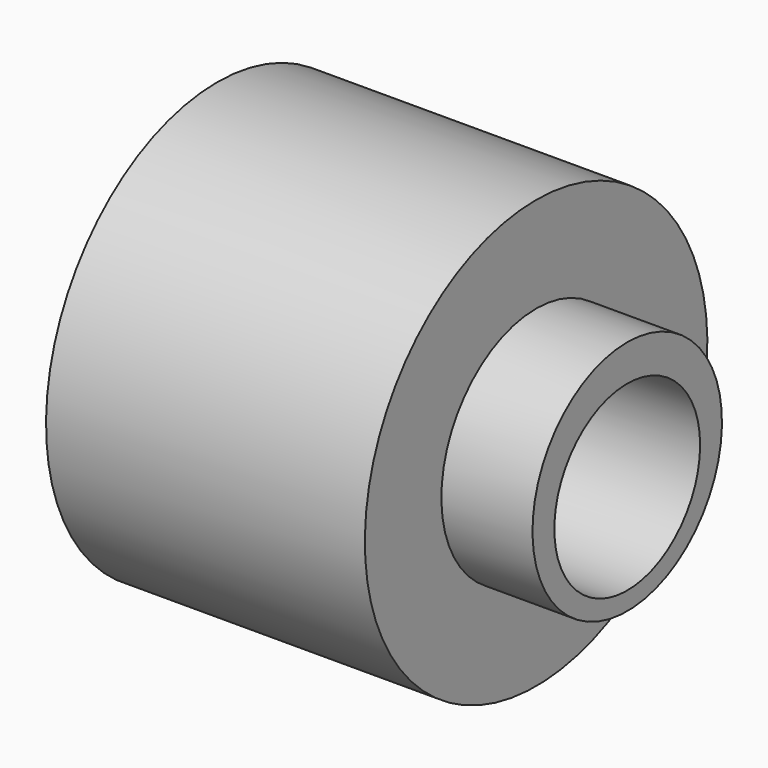
from build123d import *

# Parameters (mm, degrees)
F2_R      = 10
F3_DEPTH  = 25
F4_R      = 10
F5_DEPTH  = 20
F6_R      = 15.25
F7_DEPTH  = 5
F9_R      = 3
F10_DEPTH = 15


with BuildPart() as f1:
    # F0 (on Front) → F1 (revolve)
    with BuildSketch(Plane.XZ):
        Polygon((-35, 23.5), (-35, 0), (10, 0), (10, 13), (0, 13), (0, 23.5), align=None)
    revolve(axis=Axis((-3.193799, 0, 0), (1, 0, 0)))

    # F2 (on face) → F3 (cut)
    with BuildSketch(Plane.YZ.offset(10)):
        with Locations((0, -1)):
            Circle(F2_R)
    extrude(amount=-F3_DEPTH, mode=Mode.SUBTRACT)

    # F4 (on face) → F5 (cut)
    with BuildSketch(Plane(origin=(-35, 0, 0), x_dir=(0, -1, 0), z_dir=(-1, 0, 0))):
        with Locations((0, 9.5)):
            Circle(F4_R)
    extrude(amount=-F5_DEPTH, mode=Mode.SUBTRACT)

    # F6 (on face) → F7 (cut)
    with BuildSketch(Plane.YZ.offset(-15)):
        with Locations((3e-06, 4.25)):
            Circle(F6_R)
    extrude(amount=F7_DEPTH, mode=Mode.SUBTRACT)

    # F9 (on offset) → F10 (cut)
    with BuildSketch(Plane.XY.offset(-23.5)):
        with Locations((-23, 0)):
            Circle(F9_R)
    extrude(amount=F10_DEPTH, mode=Mode.SUBTRACT)


solid = f1.part
